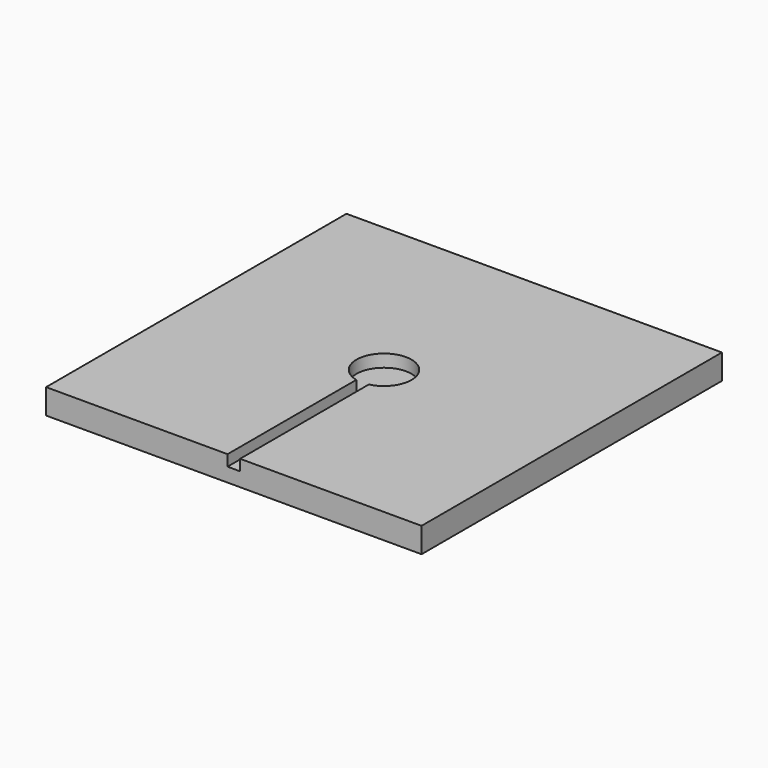
from build123d import *

# Parameters (mm, degrees)
F0_W     = 300
F0_H     = 300
F1_DEPTH = 20
F3_DEPTH = 10
F4_DEPTH = 8.8
F6_DEPTH = 1.2


with BuildPart() as f1:
    # F0 (on Top) → F1 (new body)
    with BuildSketch(Plane.XY):
        Rectangle(F0_W, F0_H)
    extrude(amount=F1_DEPTH)

    # F2 (on face) → F3 (cut)
    with BuildSketch(Plane.XY.offset(20)):
        with BuildLine():
            Line((-5, -21.4242852856), (-5, -150))
            Line((-5, -150), (5, -150))
            Line((5, -150), (5, -21.4242852856))
            ThreePointArc((5, -21.4242852856), (0, 22), (-5, -21.4242852856))
        make_face()
    extrude(amount=-F3_DEPTH, mode=Mode.SUBTRACT)

    # F2 (on face) → F4 (cut)
    with BuildSketch(Plane.XY.offset(20)):
        with BuildLine():
            Line((-5, -21.4242852856), (-5, -150))
            Line((-5, -150), (5, -150))
            Line((5, -150), (5, -21.4242852856))
            ThreePointArc((5, -21.4242852856), (0, 22), (-5, -21.4242852856))
        make_face()
    extrude(amount=-F4_DEPTH, mode=Mode.SUBTRACT)

    # F5 (on face) → F6 (join)
    with BuildSketch(Plane.XY.offset(10)):
        with BuildLine():
            ThreePointArc((5, -21.4242852856), (0, -22), (-5, -21.4242852856))
            Line((-5, -21.4242852856), (-5, -150))
            Line((-5, -150), (5, -150))
            Line((5, -150), (5, -21.4242852856))
        make_face()
    extrude(amount=F6_DEPTH)


solid = f1.part
